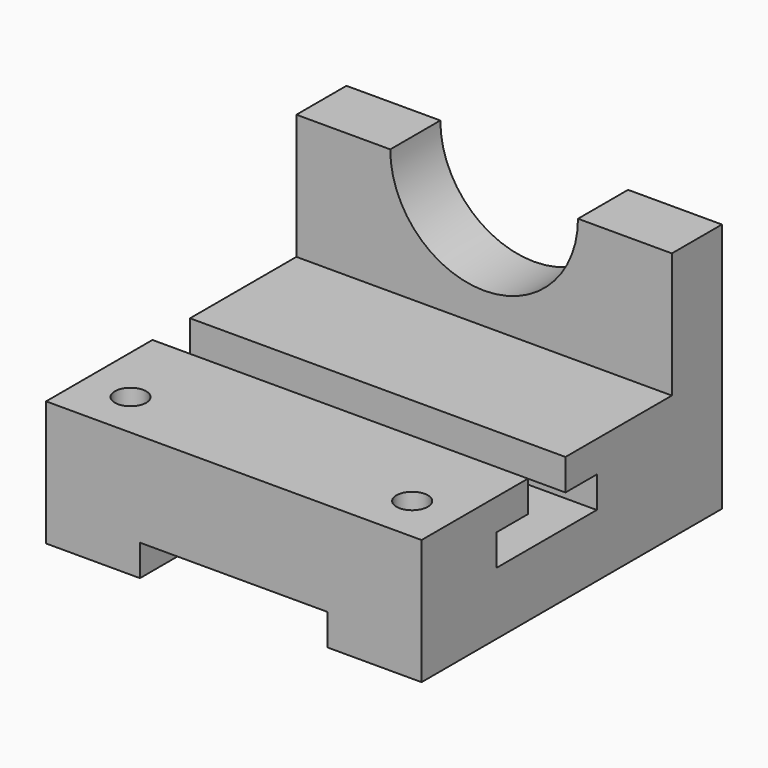
from build123d import *

# Parameters (mm, degrees)
F1_DEPTH = 152.4
F2_W     = 76.2
F2_H     = 12.7
F3_DEPTH = 152.4
F5_DEPTH = 171.70927
F7_R     = 6.35
F8_DEPTH = 152.4


with BuildPart() as f1:
    # F0 (on Right) → F1 (new body)
    with BuildSketch(Plane.YZ):
        Polygon((0, 50.8), (0, 0), (152.4, 0), (152.4, 101.6), (127, 101.6), (127, 50.8), (73.025, 50.8), (73.025, 38.1), (88.9, 38.1), (88.9, 25.4), (38.1, 25.4), (38.1, 38.1), (53.975, 38.1), (53.975, 50.8), align=None)
    extrude(amount=F1_DEPTH)

    # F2 (on Front) → F3 (cut)
    with BuildSketch(Plane.XZ):
        with Locations((76.2, 6.35)):
            Rectangle(F2_W, F2_H)
    extrude(amount=-F3_DEPTH, mode=Mode.SUBTRACT)

    # F4 (on Front) → F5 (cut)
    with BuildSketch(Plane.XZ):
        with BuildLine():
            ThreePointArc((38.1, 101.6), (76.2, 63.5), (114.3, 101.6))
            Line((114.3, 101.6), (38.1, 101.6))
        make_face()
        with BuildLine():
            Line((38.1, 101.6), (114.3, 101.6))
            ThreePointArc((114.3, 101.6), (76.2, 139.7), (38.1, 101.6))
        make_face()
    extrude(amount=-F5_DEPTH, mode=Mode.SUBTRACT)

    # F7 (on Top) → F8 (cut)
    with BuildSketch(Plane.XY):
        with Locations((19.05, 19.05)):
            Circle(F7_R)
        with Locations((133.35, 19.05)):
            Circle(F7_R)
    extrude(amount=F8_DEPTH, mode=Mode.SUBTRACT)


solid = f1.part
